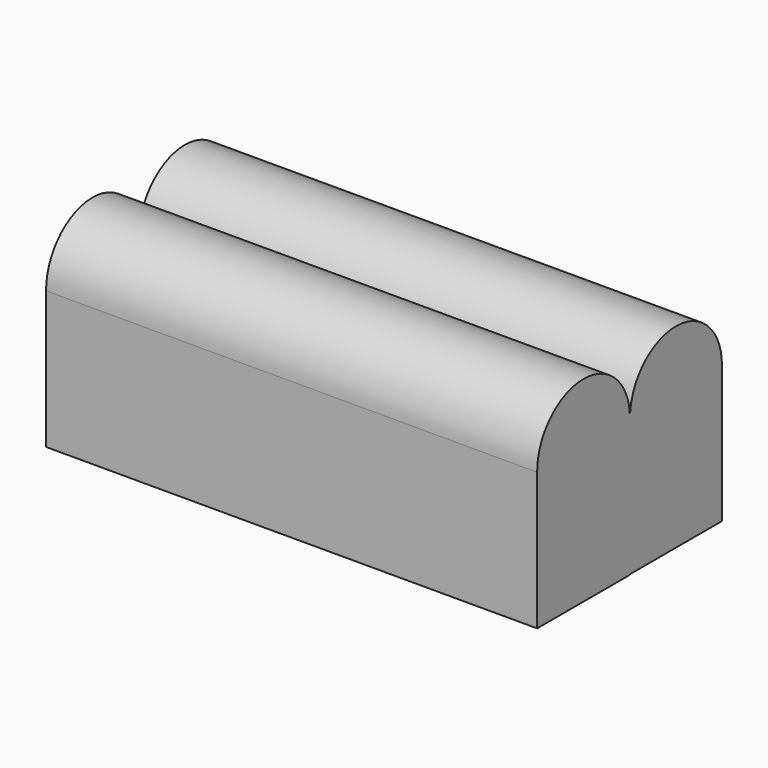
from build123d import *

# Parameters (mm, degrees)
F0_W     = 47.786064
F0_H     = 56.676067
F1_DEPTH = 203.2


with BuildPart() as f1:
    # F0 (on Right) → F1 (new body)
    with BuildSketch(Plane.YZ):
        Polygon((0, 0), (-47.781438, 0), (-47.781438, -56.898315), (0, -56.898315), (0, -56.676067), align=None)
        with Locations((23.893032, -28.338033)):
            Rectangle(F0_W, F0_H)
        with BuildLine():
            ThreePointArc((0.224563, 0.442185), (-23.99953, 24.224093), (-47.781438, 0))
            Line((-47.781438, 0), (0, 0))
            Line((0, 0), (47.786064, 0))
            ThreePointArc((47.786064, 0), (24.226407, 24.001843), (0.224563, 0.442185))
        make_face()
    extrude(amount=F1_DEPTH)


solid = f1.part
